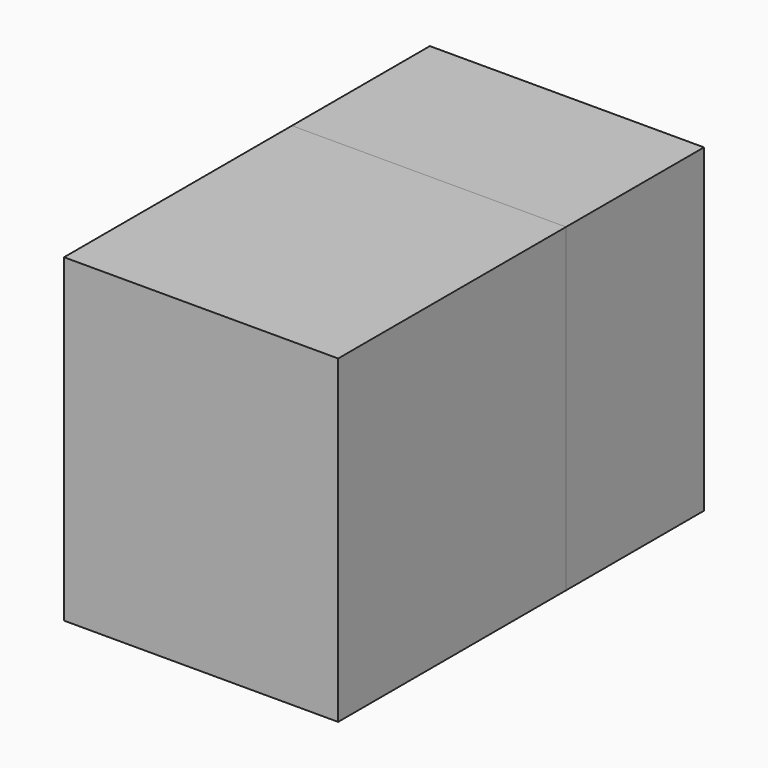
from build123d import *

# Parameters (mm, degrees)
F0_W      = 39.744213
F0_H      = 46.389734
F1_DEPTH  = 25
F1_FACE_W = 39.744214
F1_FACE_H = 46.389734
F2_DEPTH  = 41.3


with BuildPart() as f1:
    # F0 (on Front) → F1 (new body)
    with BuildSketch(Plane.XZ):
        with Locations((-134.575076, 7.471065)):
            Rectangle(F0_W, F0_H)
    extrude(amount=F1_DEPTH)


with BuildPart() as f2:
    # F1_face (on face) → F2 (new body)
    with BuildSketch(Plane(origin=(-134.575076, -25, 7.471065), x_dir=(1, 0, 0), z_dir=(0, -1, 0))):
        Rectangle(F1_FACE_W, F1_FACE_H)
    extrude(amount=F2_DEPTH)


solid = Compound([f1.part, f2.part])
